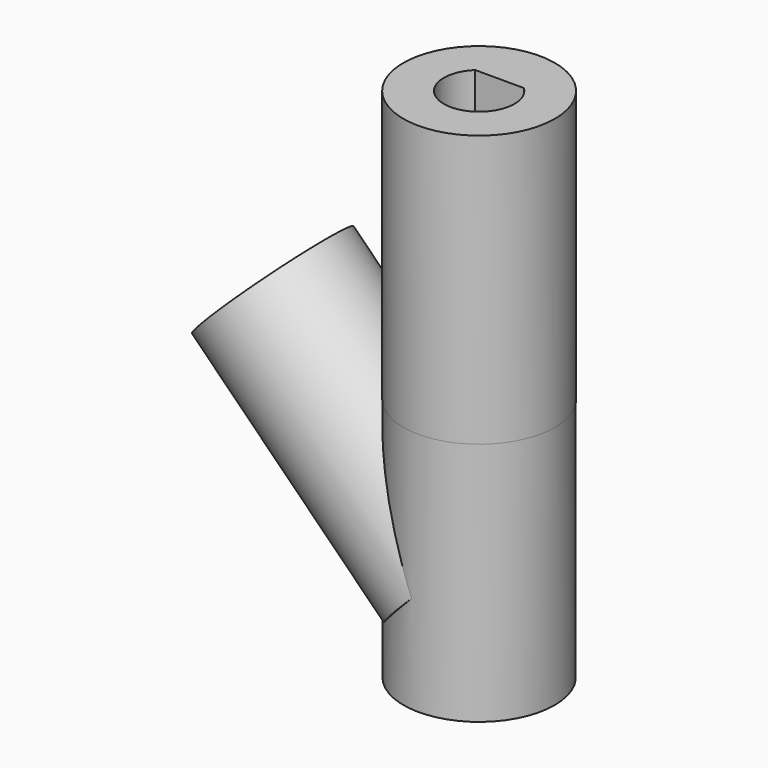
from build123d import *

# Parameters (mm, degrees)
SKETCH841_R     = 5.575015
PAD364_DEPTH    = 20
SKETCH842_R     = 5.560307
PAD365_DEPTH    = 18
SKETCH843_R     = 5.579276
PAD366_DEPTH    = 20
SKETCH844_R     = 2.85
POCKET224_DEPTH = 20
SKETCH845_R     = 2.95
POCKET225_DEPTH = 18.001


with BuildPart() as part:
    # Sketch841 → Pad364 (new body)
    with BuildSketch(Plane.XY):
        Circle(SKETCH841_R)
        with BuildLine():
            ThreePointArc((-1.794436, 1.881489), (0, -2.6), (1.794436, 1.881489))
            Line((-1.794436, 1.881489), (1.794436, 1.881489))
        make_face(mode=Mode.SUBTRACT)
    extrude(amount=PAD364_DEPTH)

    # Sketch842 → Pad365 (join)
    with BuildSketch(Plane.XY):
        Circle(SKETCH842_R)
    extrude(amount=-PAD365_DEPTH)

    # Sketch843 → Pad366 (join)
    with BuildSketch(Plane(origin=(-9, 0, 9), x_dir=(0.707107, 0, 0.707107), z_dir=(-0.707107, 0, 0.707107))):
        with Locations((-8.742249, 0)):
            Circle(SKETCH843_R)
    extrude(amount=-PAD366_DEPTH)

    # Sketch844 → Pocket224 (cut)
    with BuildSketch(Plane(origin=(-9, 0, 9), x_dir=(0.707107, 0, 0.707107), z_dir=(-0.707107, 0, 0.707107))):
        with Locations((-8.742247, 0)):
            Circle(SKETCH844_R)
    extrude(amount=-POCKET224_DEPTH, mode=Mode.SUBTRACT)

    # Sketch845 → Pocket225 (cut, through all)
    with BuildSketch(Plane.XY):
        Circle(SKETCH845_R)
    extrude(amount=-POCKET225_DEPTH, mode=Mode.SUBTRACT)


with BuildPart() as part_1:
    # Body064 placement: moved
    add(part.part.moved(Location((-52, -108, 0))))


solid = part_1.part
